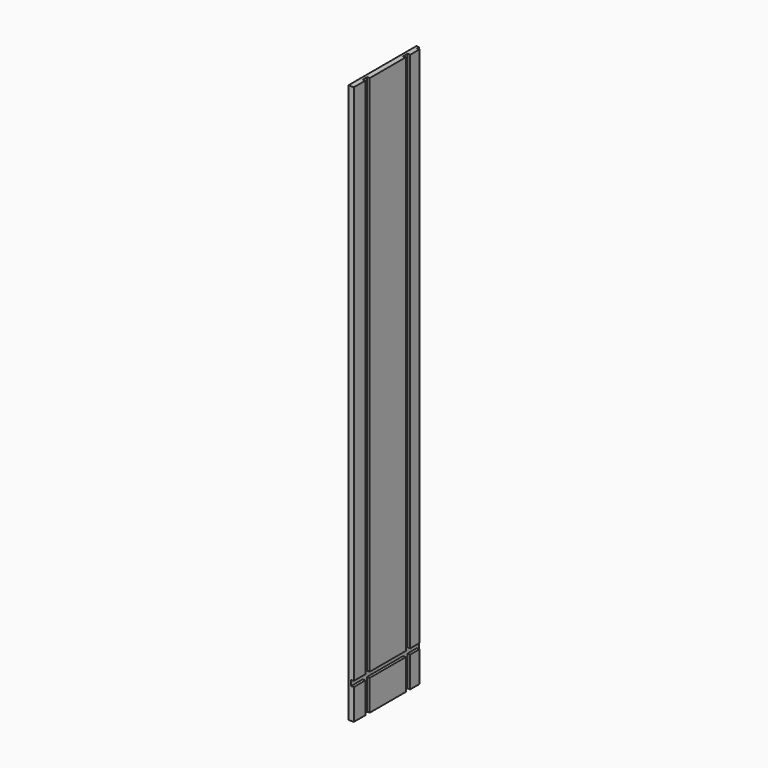
from build123d import *

# Parameters (mm, degrees)
F0_W     = 298.45
F0_H     = 1965.325
F1_DEPTH = 19.05
F2_W     = 298.45
F2_H     = 19.05
F3_DEPTH = 9.525
F4_W     = 19.05
F4_H     = 1965.325
F5_DEPTH = 9.525
F6_W     = 9.525
F6_H     = 9.525
F7_DEPTH = 1965.326


with BuildPart() as f1:
    # F0 (on Right) → F1 (new body)
    with BuildSketch(Plane.YZ):
        Rectangle(F0_W, F0_H)
    extrude(amount=F1_DEPTH)

    # F2 (on face) → F3 (cut)
    with BuildSketch(Plane.YZ.offset(19.05)):
        with Locations((0, -865.1875)):
            Rectangle(F2_W, F2_H)
    extrude(amount=-F3_DEPTH, mode=Mode.SUBTRACT)

    # F4 (on face) → F5 (cut)
    with BuildSketch(Plane.YZ.offset(19.05)):
        with Locations((-88.9, 0)):
            Rectangle(F4_W, F4_H)
        with Locations((88.9, 0)):
            Rectangle(F4_W, F4_H)
    extrude(amount=-F5_DEPTH, mode=Mode.SUBTRACT)

    # F6 (on face) → F7 (cut, through all)
    with BuildSketch(Plane(origin=(0, 0, -982.6625), x_dir=(1, 0, 0), z_dir=(0, 0, -1))):
        with Locations((14.2875, -144.4625)):
            Rectangle(F6_W, F6_H)
    extrude(amount=-F7_DEPTH, mode=Mode.SUBTRACT)


solid = f1.part
